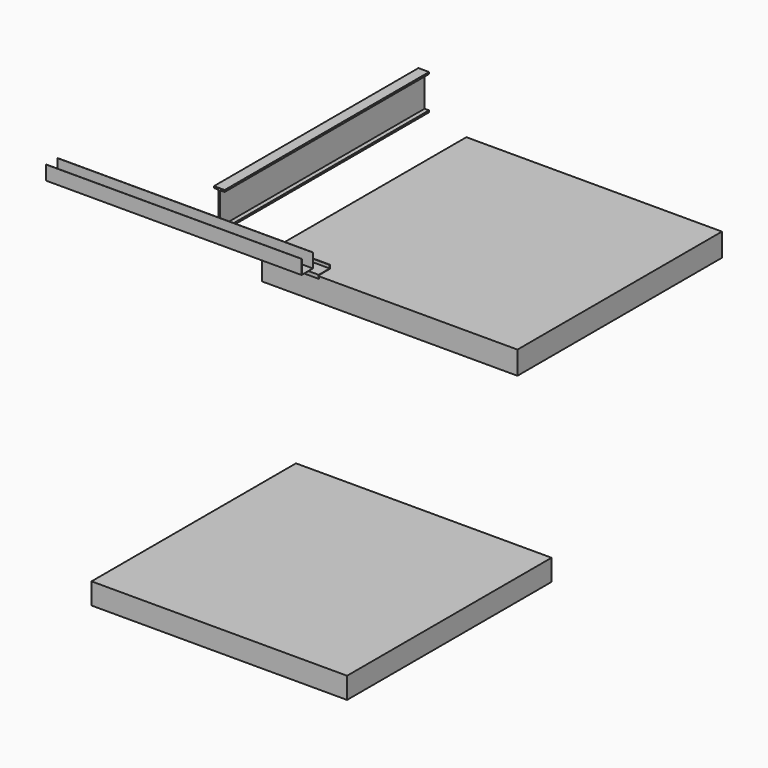
from build123d import *

# Parameters (mm, degrees)
F0_W     = 3657.6
F0_H     = 304.8
F1_DEPTH = 3657.6
F3_DEPTH = 3657.6
F5_DEPTH = 1828.8
F7_DEPTH = 1828.8
F8_W     = 3657.6
F8_H     = 330.2
F9_DEPTH = 3657.6


with BuildPart() as f1:
    # F0 (on Front) → F1 (new body)
    with BuildSketch(Plane.XZ):
        with Locations((0, -152.4)):
            Rectangle(F0_W, F0_H)
    extrude(amount=-F1_DEPTH)


with BuildPart() as f3:
    # F2 (on Front) → F3 (new body)
    with BuildSketch(Plane.XZ):
        Polygon((76.2, 5549.9), (0, 5549.9), (-76.2, 5549.9), (-76.2, 5524.5), (-12.7, 5524.5), (-12.7, 5067.3), (-76.2, 5067.3), (-76.2, 5041.9), (0, 5041.9), (76.2, 5041.9), (76.2, 5067.3), (12.7, 5067.3), (12.7, 5524.5), (76.2, 5524.5), align=None)
    extrude(amount=-F3_DEPTH)


with BuildPart() as f5:
    # F4 (on Right) → F5 (new body, symmetric)
    with BuildSketch(Plane.YZ):
        Polygon((-508, 5251.45), (-508, 5207), (-501.65, 5207), (-501.65, 5251.45), (-311.15, 5251.45), (-304.8, 5251.45), (-304.8, 5302.25), (-311.15, 5302.25), (-311.15, 5257.8), (-508, 5257.8), align=None)
    extrude(amount=F5_DEPTH, both=True)


with BuildPart() as f7:
    # F6 (on Right) → F7 (new body, symmetric)
    with BuildSketch(Plane.YZ):
        Polygon((-810.26, 5581.65), (-812.8, 5581.65), (-812.8, 5378.45), (-609.6, 5378.45), (-609.6, 5581.65), (-612.14, 5581.65), (-612.14, 5380.99), (-810.26, 5380.99), align=None)
    extrude(amount=F7_DEPTH, both=True)


with BuildPart() as f9:
    # F8 (on Front) → F9 (new body)
    with BuildSketch(Plane.XZ):
        with Locations((2438.4, 4737.1)):
            Rectangle(F8_W, F8_H)
    extrude(amount=-F9_DEPTH)


solid = Compound([f1.part, f3.part, f5.part, f7.part, f9.part])
